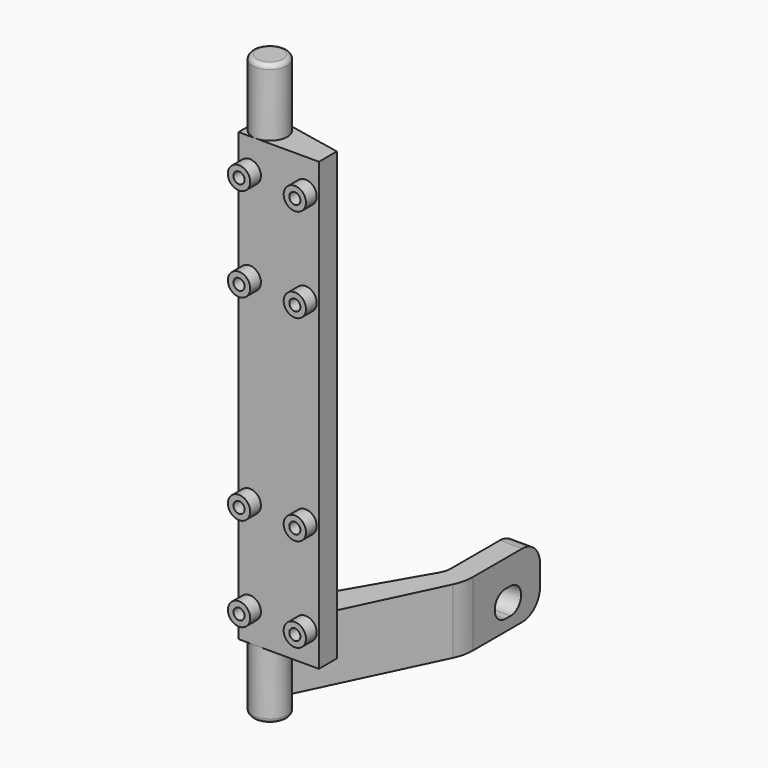
from build123d import *

# Parameters (mm, degrees)
PAD_DEPTH         = 100
SKETCH001_W       = 13
SKETCH001_H       = 92
POCKET_DEPTH      = 13
SKETCH002_R       = 3.9
PAD001_DEPTH      = 15
PAD001_DEPTH_BACK = 115
FILLET_R          = 1
SKETCH003_R       = 2.5
PAD002_DEPTH      = 3
SKETCH004_R       = 1.25
POCKET001_DEPTH   = 10
POCKET002_DEPTH   = 130.001
POCKET003_DEPTH   = 0.801
POCKET004_DEPTH   = 0.801
POCKET005_DEPTH   = 0.801
POCKET006_DEPTH   = 0.801
SKETCH006_W       = 5
SKETCH006_H       = 14.5
PAD003_DEPTH      = 53.3
POCKET007_DEPTH   = 6.401
PAD004_DEPTH      = 14.5
POCKET008_DEPTH   = 14.5
FILLET001_R       = 5
FILLET002_R       = 5
FILLET003_R       = 10
FILLET004_R       = 5


with BuildPart() as part:
    # Sketch → Pad (new body)
    with BuildSketch(Plane.XY):
        Polygon((0, 0), (18, 0), (18, 5), (5, 18), (0, 18), align=None)
    extrude(amount=PAD_DEPTH)

    # Sketch001 (on Face4 of Pad) → Pocket (cut)
    with BuildSketch(Plane(origin=(0, 18, 0), x_dir=(-1, 0, 0), z_dir=(0, 1, 0))):
        with Locations((-11.5, 50)):
            Rectangle(SKETCH001_W, SKETCH001_H)
    extrude(amount=-POCKET_DEPTH, mode=Mode.SUBTRACT)

    # Sketch002 (on Face5 of Pocket) → Pad001 (join, two sides)
    with BuildSketch(Plane.XY.offset(100)) as pad001_sk:
        with Locations((3.9, 3.9)):
            Circle(SKETCH002_R)
    extrude(amount=PAD001_DEPTH)
    extrude(pad001_sk.sketch, amount=-PAD001_DEPTH_BACK)

    # Fillet
    fillet_edges = [part.edges().sort_by_distance(p)[0] for p in [
        (0, 3.9, 115),
        (0, 3.9, -15),
    ]]
    fillet(fillet_edges, radius=FILLET_R)

    # Sketch003 (on Face10 of Fillet) → Pad002 (join)
    with BuildSketch(Plane.XZ):
        with Locations((2.5, 93)):
            Circle(SKETCH003_R)
        with Locations((15, 93)):
            Circle(SKETCH003_R)
        with Locations((15, 72)):
            Circle(SKETCH003_R)
        with Locations((2.5, 72)):
            Circle(SKETCH003_R)
        with Locations((15, 7)):
            Circle(SKETCH003_R)
        with Locations((15, 28)):
            Circle(SKETCH003_R)
        with Locations((2.5, 7)):
            Circle(SKETCH003_R)
        with Locations((2.5, 28)):
            Circle(SKETCH003_R)
    extrude(amount=PAD002_DEPTH)

    # Sketch004 (on Face37 of Pad002) → Pocket001 (cut)
    with BuildSketch(Plane.XZ.offset(3)):
        with Locations((2.5, 93)):
            Circle(SKETCH004_R)
        with Locations((15, 93)):
            Circle(SKETCH004_R)
        with Locations((2.5, 72)):
            Circle(SKETCH004_R)
        with Locations((15, 72)):
            Circle(SKETCH004_R)
        with Locations((15, 28)):
            Circle(SKETCH004_R)
        with Locations((2.5, 28)):
            Circle(SKETCH004_R)
        with Locations((15, 7)):
            Circle(SKETCH004_R)
        with Locations((2.5, 7)):
            Circle(SKETCH004_R)
    extrude(amount=-POCKET001_DEPTH, mode=Mode.SUBTRACT)

    # Sketch005 (on Face51 of Pocket001) → Pocket002 (cut, through all)
    with BuildSketch(Plane.XY.offset(115)):
        with BuildLine():
            Line((4.680603, 7.721081), (18, 5))
            Line((18, 5), (18, 20))
            Line((-5, 20), (18, 20))
            Line((-5, 3.9), (-5, 20))
            Line((0, 3.9), (-5, 3.9))
            ThreePointArc((4.680603, 7.721081), (1.433662, 6.921122), (0, 3.9))
        make_face()
    extrude(amount=-POCKET002_DEPTH, mode=Mode.SUBTRACT)

    # Pocket002 Face15 → Pocket003 (cut, through all)
    with BuildSketch(Plane(origin=(2.572191, 7, 93), x_dir=(-1, 0, 0), z_dir=(0, -1, 0))):
        with BuildLine():
            ThreePointArc((1.038623, 0.792786), (-0.348796, 1.176975), (-1.177809, 0))
            ThreePointArc((-1.177809, 0), (-0.348796, -1.176975), (1.038623, -0.792786))
            Line((1.038623, -0.792786), (1.038623, 0.792786))
        make_face()
    extrude(amount=-POCKET003_DEPTH, mode=Mode.SUBTRACT)

    # Pocket003 Face15 → Pocket004 (cut, through all)
    with BuildSketch(Plane(origin=(2.572191, 7, 72), x_dir=(-1, 0, 0), z_dir=(0, -1, 0))):
        with BuildLine():
            ThreePointArc((1.038623, 0.792786), (-0.348796, 1.176975), (-1.177809, 0))
            ThreePointArc((-1.177809, 0), (-0.348796, -1.176975), (1.038623, -0.792786))
            Line((1.038623, -0.792786), (1.038623, 0.792786))
        make_face()
    extrude(amount=-POCKET004_DEPTH, mode=Mode.SUBTRACT)

    # Pocket004 Face21 → Pocket005 (cut, through all)
    with BuildSketch(Plane(origin=(2.572191, 7, 7), x_dir=(-1, 0, 0), z_dir=(0, -1, 0))):
        with BuildLine():
            ThreePointArc((1.038623, 0.792786), (-0.348796, 1.176975), (-1.177809, 0))
            ThreePointArc((-1.177809, 0), (-0.348796, -1.176975), (1.038623, -0.792786))
            Line((1.038623, -0.792786), (1.038623, 0.792786))
        make_face()
    extrude(amount=-POCKET005_DEPTH, mode=Mode.SUBTRACT)

    # Pocket005 Face24 → Pocket006 (cut, through all)
    with BuildSketch(Plane(origin=(2.572191, 7, 28), x_dir=(-1, 0, 0), z_dir=(0, -1, 0))):
        with BuildLine():
            ThreePointArc((1.038623, 0.792786), (-0.348796, 1.176975), (-1.177809, 0))
            ThreePointArc((-1.177809, 0), (-0.348796, -1.176975), (1.038623, -0.792786))
            Line((1.038623, -0.792786), (1.038623, 0.792786))
        make_face()
    extrude(amount=-POCKET006_DEPTH, mode=Mode.SUBTRACT)

    # Sketch006 (on Face30 of Pocket006) → Pad003 (join)
    with BuildSketch(Plane(origin=(0, 5, 0), x_dir=(-1, 0, 0), z_dir=(0, 1, 0))):
        with Locations((-3.9, -4.25)):
            Rectangle(SKETCH006_W, SKETCH006_H)
    extrude(amount=PAD003_DEPTH)

    # Sketch007 (on Face11 of Pad003) → Pocket007 (cut, through all)
    with BuildSketch(Plane.YZ.offset(6.4)):
        with BuildLine():
            Line((48.550002, -3.05), (50.050002, -3.05))
            ThreePointArc((50.050002, -8.95), (52.999998, -6), (50.050002, -3.05))
            Line((48.55, -8.95), (50.050002, -8.95))
            ThreePointArc((48.550002, -3.05), (45.600002, -5.999999), (48.55, -8.95))
        make_face()
    extrude(amount=-POCKET007_DEPTH, mode=Mode.SUBTRACT)

    # Pocket007 Face11 → Pad004 (add)
    with BuildSketch(Plane(origin=(6.4, 31.794028, -4.172133), x_dir=(0, -1, 0), z_dir=(1, 0, 0))):
        Polygon((24.424211, -7.172133), (24.424211, -4.172133), (24.900702, -4.172133), (24.900702, 7.327867), (-26.505972, 7.327867), (-26.505972, -7.172133), align=None)
        with BuildLine():
            Line((-16.755973, -1.122133), (-18.255973, -1.122133))
            ThreePointArc((-18.255973, -1.122133), (-21.205969, 1.827867), (-18.255973, 4.777867))
            Line((-18.255973, 4.777867), (-16.755972, 4.777867))
            ThreePointArc((-16.755972, 4.777867), (-13.805974, 1.827866), (-16.755973, -1.122133))
        make_face(mode=Mode.SUBTRACT)
    extrude(amount=PAD004_DEPTH)

    # Sketch008 (on Face18 of Pad004) → Pocket008 (cut)
    with BuildSketch(Plane(origin=(0, 0, -11.5), x_dir=(1, 0, 0), z_dir=(0, 0, -1))):
        Polygon((15.9, -58.3), (15.9, -38.3), (1.4, -13.185263), (-8.6, -13.185263), (-8.6, -68.3), (32.38311, -68.3), (32.38311, -6.893326), (6.4, -6.893326), (22.38311, -40.3), (22.38311, -58.3), align=None)
    extrude(amount=-POCKET008_DEPTH, mode=Mode.SUBTRACT)

    # Fillet001
    fillet001_edges = [part.edges().sort_by_distance(p)[0] for p in [
        (1.4, 13.185263, -4.25),
    ]]
    fillet(fillet001_edges, radius=FILLET001_R)

    # Fillet002
    fillet002_edges = [part.edges().sort_by_distance(p)[0] for p in [
        (15.9, 38.3, -4.25),
    ]]
    fillet(fillet002_edges, radius=FILLET002_R)

    # Fillet003
    fillet003_edges = [part.edges().sort_by_distance(p)[0] for p in [
        (20.9, 37.200117, -4.25),
    ]]
    fillet(fillet003_edges, radius=FILLET003_R)

    # Fillet004
    fillet004_edges = [part.edges().sort_by_distance(p)[0] for p in [
        (18.4, 58.3, -11.5),
        (18.4, 58.3, 3),
    ]]
    fillet(fillet004_edges, radius=FILLET004_R)


solid = part.part
